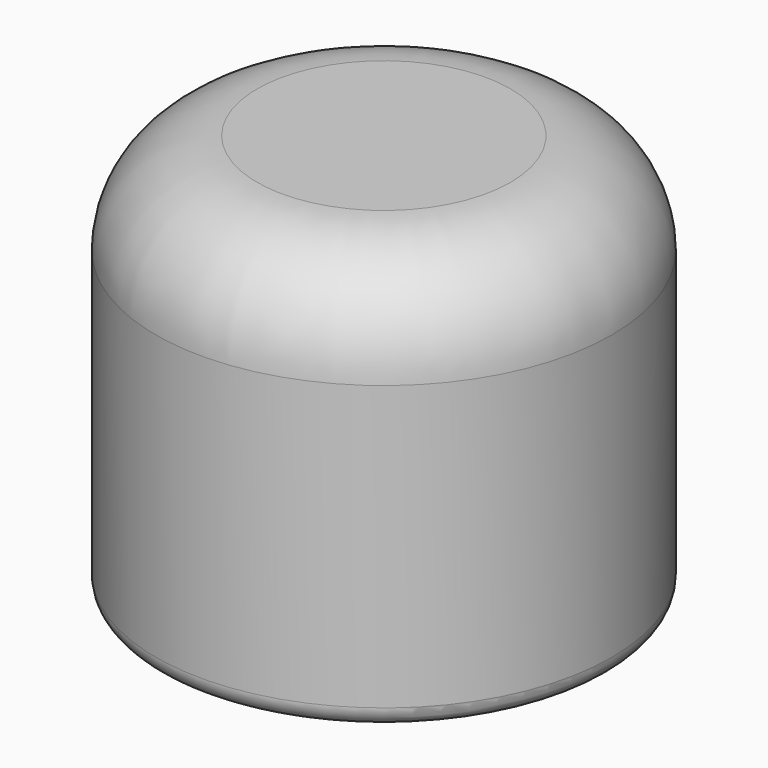
from build123d import *

# Parameters (mm, degrees)
F0_R     = 11.25
F0_R_2   = 9.25
F1_DEPTH = 20
F2_DEPTH = 18
F2_TAPER = 2
F3_R     = 5
F4_R     = 1


with BuildPart() as f1:
    # F0 (on Top) → F1 (new body)
    with BuildSketch(Plane.XY):
        Circle(F0_R)
        Circle(F0_R_2, mode=Mode.SUBTRACT)
        Circle(F0_R_2)
    extrude(amount=F1_DEPTH)

    # F0 (on Top) → F2 (cut)
    with BuildSketch(Plane.XY):
        Circle(F0_R_2)
    extrude(amount=F2_DEPTH, taper=F2_TAPER, mode=Mode.SUBTRACT)

    # F3
    f3_edges = [f1.edges().sort_by_distance(p)[0] for p in [
        (-11.25, 0, 20),
    ]]
    fillet(f3_edges, radius=F3_R)

    # F4
    f4_edges = [f1.edges().sort_by_distance(p)[0] for p in [
        (11.25, 0, 7.5),
        (-11.25, 0, 15),
        (-11.25, 0, 0),
        (-9.25, 0, 0),
        (8.935713, 0, 9),
        (-8.621426, 0, 18),
    ]]
    fillet(f4_edges, radius=F4_R)


solid = f1.part
